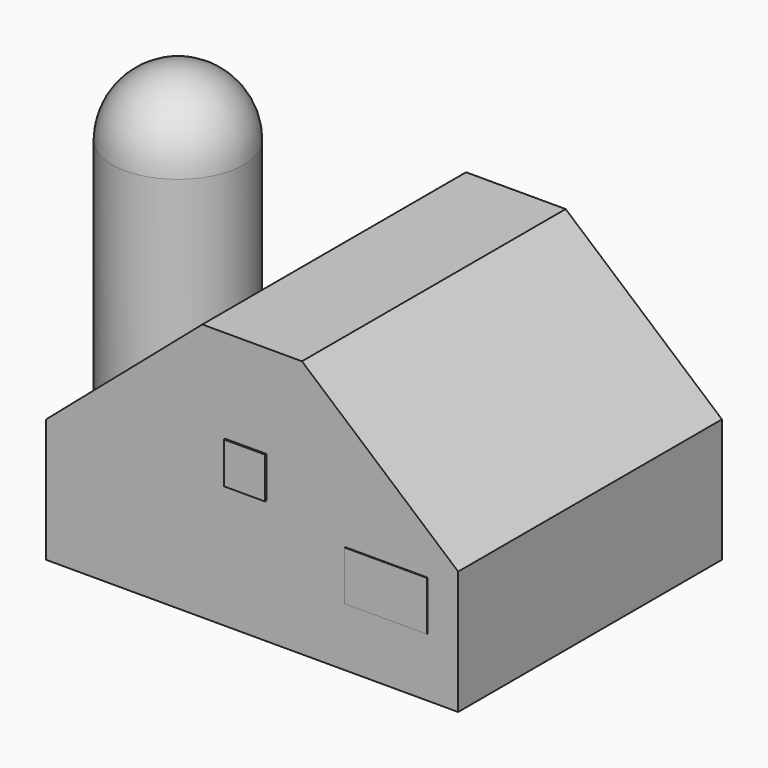
from build123d import *

# Parameters (mm, degrees)
F0_W          = 25.4
F0_H          = 15.24
F1_DEPTH      = 76.2
F1_DEPTH_BACK = 25.4
F3_START      = 69.85
F0_W_2        = 38.1
F0_H_2        = 27.94
F3_DEPTH      = 6.35
F4_START      = 69.85
F0_W_3        = 7.62
F0_H_3        = 11.43
F4_DEPTH      = 6.35
F5_START      = 69.85
F0_W_4        = 12.7
F0_H_4        = 12.7
F5_DEPTH      = 6.858
F6_START      = 69.85
F6_DEPTH      = 6.604


with BuildPart() as f1:
    # F0 (on Front) → F1 (new body, two sides)
    with BuildSketch(Plane.XZ) as f1_sk:
        Polygon((59.1352019906, -45.1827376871), (59.1352019906, -7.0827376871), (0, -7.0827376871), (-12.7, -7.0827376871), (-67.8647980094, -7.0827376871), (-67.8647980094, -45.1827376871), (-56.3685745001, -45.1827376871), (-56.3685745001, -33.7527376871), (-48.7485745001, -33.7527376871), (-48.7485745001, -45.1827376871), (-24.4758278131, -45.1827376871), (-24.4758278131, -17.2427376871), (13.6241721869, -17.2427376871), (13.6241721869, -45.1827376871), align=None)
        with Locations((36.9904070765, -19.3914072331)):
            Rectangle(F0_W, F0_H, mode=Mode.SUBTRACT)
        Polygon((0, -7.0827376871), (59.1352019906, -7.0827376871), (10.986558335, 34.3172395366), (-19.7161543538, 34.3172395366), (-67.8647980094, -7.0827376871), (-12.7, -7.0827376871), (-12.7, 5.6172623129), (0, 5.6172623129), align=None)
    extrude(amount=F1_DEPTH)
    extrude(f1_sk.sketch, amount=-F1_DEPTH_BACK)

    # F0 (on Front) → F3 (join)
    with BuildSketch(Plane.XZ.offset(F3_START)):
        with Locations((-5.4258278131, -31.2127376871)):
            Rectangle(F0_W_2, F0_H_2)
    extrude(amount=F3_DEPTH)

    # F0 (on Front) → F4 (join)
    with BuildSketch(Plane.XZ.offset(F4_START)):
        with Locations((-52.5585745001, -39.4677376871)):
            Rectangle(F0_W_3, F0_H_3)
    extrude(amount=F4_DEPTH)

    # F0 (on Front) → F5 (join)
    with BuildSketch(Plane.XZ.offset(F5_START)):
        with Locations((-6.35, -0.7327376871)):
            Rectangle(F0_W_4, F0_H_4)
    extrude(amount=F5_DEPTH)

    # F0 (on Front) → F6 (join)
    with BuildSketch(Plane.XZ.offset(F6_START)):
        with Locations((36.9904070765, -19.3914072331)):
            Rectangle(F0_W, F0_H)
    extrude(amount=F6_DEPTH)


with BuildPart() as f2:
    # F0 (on Front) → F2 (revolve)
    with BuildSketch(Plane.XZ):
        with BuildLine():
            Line((-88.1847980094, 31.0172623129), (-67.8647980094, 31.0172623129))
            ThreePointArc((-67.8647980094, 31.0172623129), (-73.8163882157, 45.3856721066), (-88.1847980094, 51.3372623129))
            Line((-88.1847980094, 51.3372623129), (-88.1847980094, 31.0172623129))
        make_face()
        Polygon((-67.8647980094, -45.1827376871), (-67.8647980094, -7.0827376871), (-67.8647980094, 31.0172623129), (-88.1847980094, 31.0172623129), (-88.1847980094, -45.1827376871), align=None)
    revolve(axis=Axis((-88.1847980094, 0, 3.0772623129), (0, 0, -1)))


solid = Compound([f1.part, f2.part])
